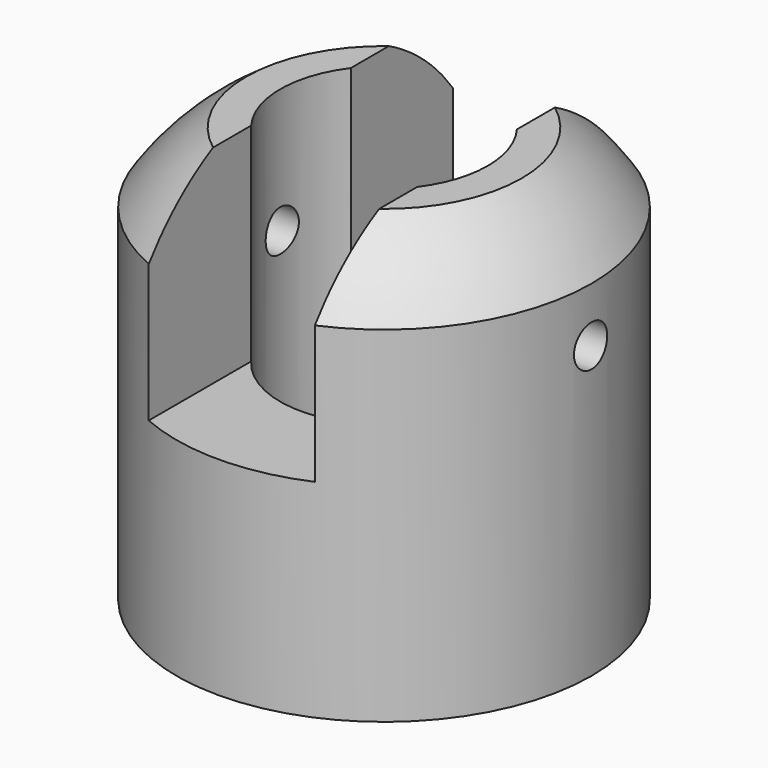
from build123d import *

# Parameters (mm, degrees)
CYLINDER032_R                = 3
CYLINDER032_DEPTH            = 10
CYLINDER031_R                = 5
CYLINDER031_DEPTH            = 4
CYLINDER030_R                = 0.5
CYLINDER030_DEPTH            = 10
CYLINDER029_R                = 2.5
CYLINDER029_DEPTH            = 10
BOX011_W                     = 4
BOX011_H                     = 10
BOX011_DEPTH                 = 5
CYLINDER028_R                = 5
CYLINDER028_DEPTH            = 10
FUSION005009_PLACEMENT_ANGLE = 180


with BuildPart() as cylinder032:
    # Cylinder032 → Cylinder032 (new body)
    with BuildSketch(Plane(origin=(18, 0, -6), x_dir=(1, 0, 0), z_dir=(0, 0, 1))):
        Circle(CYLINDER032_R)
    extrude(amount=CYLINDER032_DEPTH)


with BuildPart() as cut027:
    # Cylinder031 → Cylinder031 (new body)
    with BuildSketch(Plane(origin=(18, 0, -4), x_dir=(1, 0, 0), z_dir=(0, 0, 1))):
        Circle(CYLINDER031_R)
    extrude(amount=CYLINDER031_DEPTH)

    # Cut027: cut Cylinder032
    add(cylinder032.part, mode=Mode.SUBTRACT)


with BuildPart() as cut027_1:
    # Cut027 placement: moved
    add(cut027.part.moved(Location((-18, 0, 0))))


with BuildPart() as sphere007:
    # Sphere007 → Sphere007 (revolve)
    with BuildSketch(Plane(origin=(0, 0, -5), x_dir=(1, 0, 0), z_dir=(0, -1, 0))):
        with BuildLine():
            ThreePointArc((0, -6), (6, 0), (0, 6))
            Line((0, 6), (0, -6))
        make_face()
    revolve(axis=Axis((0, 0, -5), (0, 0, 1)))


with BuildPart() as cylinder030:
    # Cylinder030 → Cylinder030 (new body)
    with BuildSketch(Plane(origin=(5, 0, -7), x_dir=(0, 0, 1), z_dir=(-1, 0, 0))):
        Circle(CYLINDER030_R)
    extrude(amount=CYLINDER030_DEPTH)


with BuildPart() as cylinder029:
    # Cylinder029 → Cylinder029 (new body)
    with BuildSketch(Plane.XY.offset(-10)):
        Circle(CYLINDER029_R)
    extrude(amount=CYLINDER029_DEPTH)


with BuildPart() as cube011:
    # Box011 → Box011 (new body)
    with BuildSketch(Plane(origin=(-2, -5, -10), x_dir=(1, 0, 0), z_dir=(0, 0, 1))):
        with Locations((2, 5)):
            Rectangle(BOX011_W, BOX011_H)
    extrude(amount=BOX011_DEPTH)


with BuildPart() as fusion005009:
    # Cylinder028 → Cylinder028 (new body)
    with BuildSketch(Plane.XY.offset(-10)):
        Circle(CYLINDER028_R)
    extrude(amount=CYLINDER028_DEPTH)

    # Cut024: cut Cube011
    add(cube011.part, mode=Mode.SUBTRACT)

    # Cut025: cut Cylinder029
    add(cylinder029.part, mode=Mode.SUBTRACT)

    # Cut026: cut Cylinder030
    add(cylinder030.part, mode=Mode.SUBTRACT)

    # Common005: intersect Sphere007
    add(sphere007.part, mode=Mode.INTERSECT)

    # Fusion005008: union Cut027
    add(cut027_1.part)


with BuildPart() as fusion005009_1:
    # Fusion005009 placement: moved
    add(fusion005009.part.moved(Location((0, 0, -18.5))).rotate(Axis((0, 0, -18.5), (1, 0, 0)), FUSION005009_PLACEMENT_ANGLE))


solid = fusion005009_1.part
